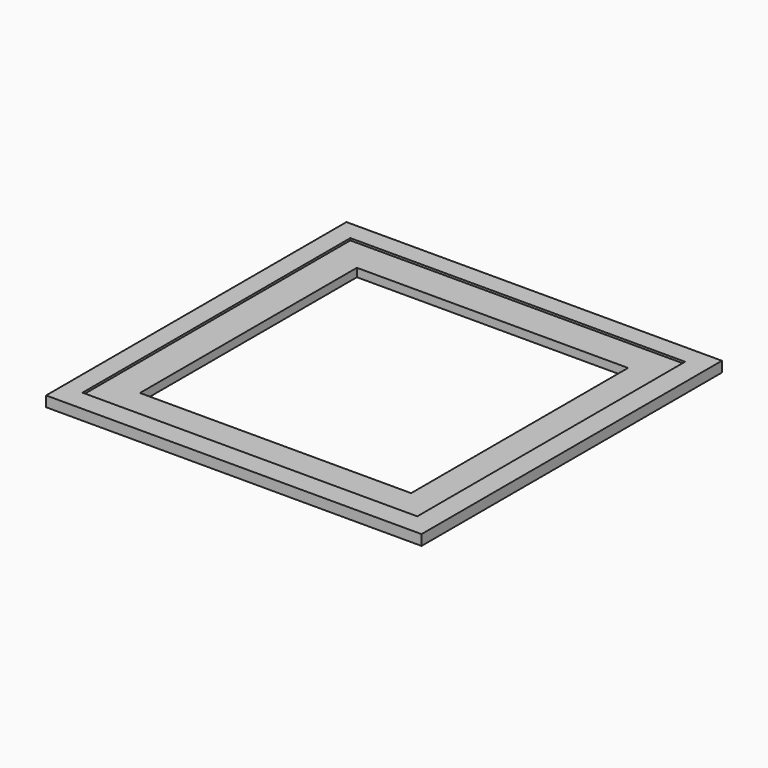
from build123d import *

# Parameters (mm, degrees)
F0_W     = 180
F0_H     = 180
F0_W_2   = 130
F0_H_2   = 130
F1_DEPTH = 4
F2_W     = 180
F2_H     = 180
F2_W_2   = 160.5
F2_H_2   = 160.5
F3_DEPTH = 1


with BuildPart() as f1:
    # F0 (on Top) → F1 (new body)
    with BuildSketch(Plane.XY):
        with Locations((-3.792722, 36.59609)):
            Rectangle(F0_W, F0_H)
        with Locations((-3.792722, 36.59609)):
            Rectangle(F0_W_2, F0_H_2, mode=Mode.SUBTRACT)
    extrude(amount=F1_DEPTH)

    # F2 (on face) → F3 (join)
    with BuildSketch(Plane.XY.offset(4)):
        with Locations((-3.792722, 36.59609)):
            Rectangle(F2_W, F2_H)
        with Locations((-4.292722, 37.09609)):
            Rectangle(F2_W_2, F2_H_2, mode=Mode.SUBTRACT)
    extrude(amount=F3_DEPTH)


solid = f1.part
